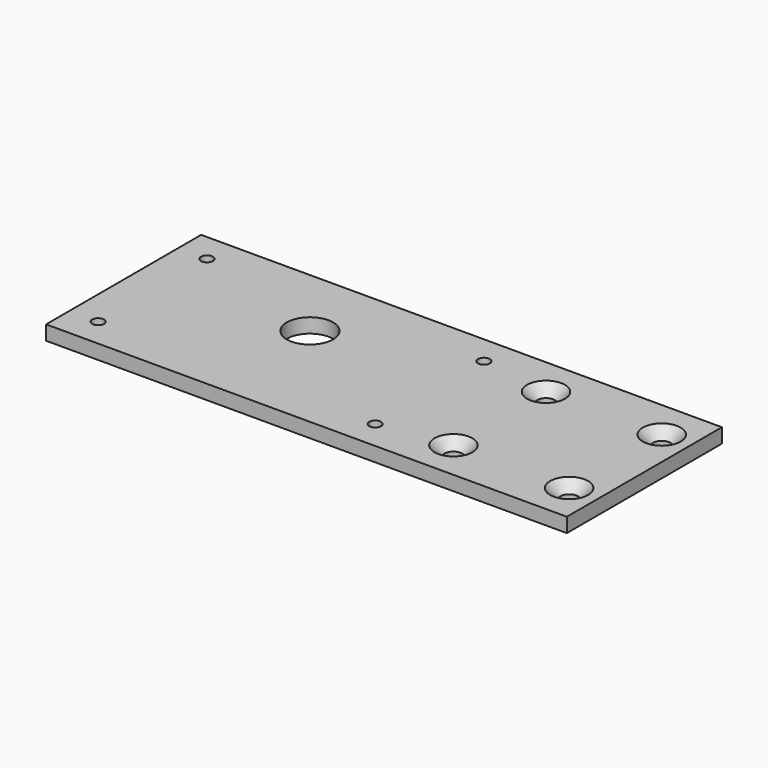
from build123d import *

# Parameters (mm, degrees)
F0_W     = 180
F0_H     = 67
F0_R     = 2.05
F0_R_2   = 3.05
F0_R_3   = 8
F1_DEPTH = 5
F2_SIZE  = 3.5
F3_SIZE  = 2.5


with BuildPart() as f1:
    # F0 (on Top) → F1 (new body)
    with BuildSketch(Plane.XY):
        with Locations((90, 33.5)):
            Rectangle(F0_W, F0_H)
        with Locations((10, 10)):
            Circle(F0_R, mode=Mode.SUBTRACT)
        with Locations((105.75, 10)):
            Circle(F0_R, mode=Mode.SUBTRACT)
        with Locations((130, 13.5)):
            Circle(F0_R_2, mode=Mode.SUBTRACT)
        with Locations((170, 13.5)):
            Circle(F0_R_2, mode=Mode.SUBTRACT)
        with Locations((58, 41.5)):
            Circle(F0_R_3, mode=Mode.SUBTRACT)
        with Locations((10, 57)):
            Circle(F0_R, mode=Mode.SUBTRACT)
        with Locations((105.75, 57)):
            Circle(F0_R, mode=Mode.SUBTRACT)
        with Locations((130, 53.5)):
            Circle(F0_R_2, mode=Mode.SUBTRACT)
        with Locations((170, 53.5)):
            Circle(F0_R_2, mode=Mode.SUBTRACT)
    extrude(amount=-F1_DEPTH)

    # F2
    f2_edges = [f1.edges().sort_by_distance(p)[0] for p in [
        (126.95, 53.5, 0),
        (166.95, 53.5, 0),
        (166.95, 13.5, 0),
        (126.95, 13.5, 0),
    ]]
    chamfer(f2_edges, length=F2_SIZE)

    # F3
    f3_edges = [f1.edges().sort_by_distance(p)[0] for p in [
        (103.7, 57, -5),
        (103.7, 10, -5),
        (7.95, 10, -5),
        (7.95, 57, -5),
    ]]
    chamfer(f3_edges, length=F3_SIZE)


solid = f1.part
